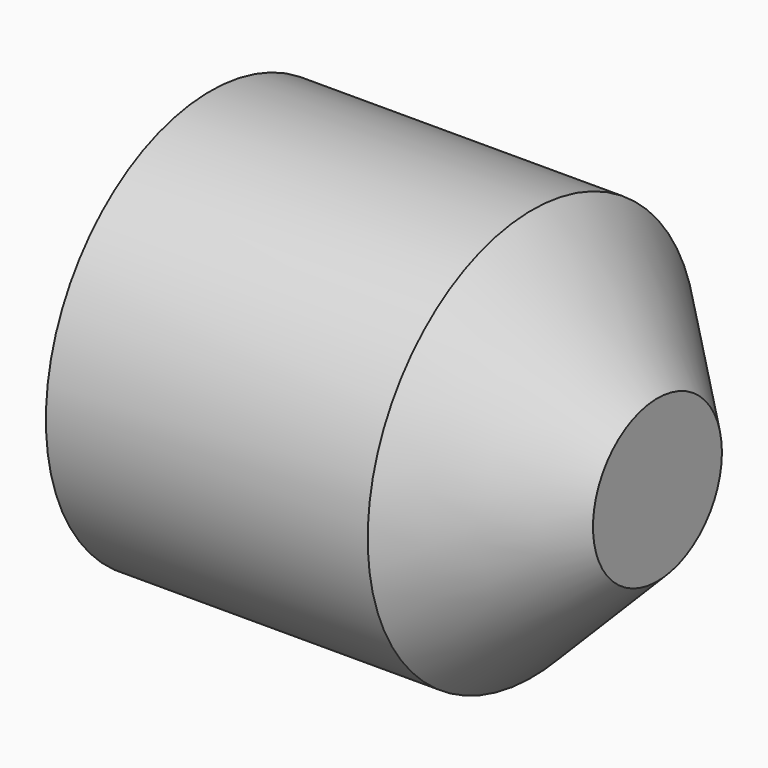
from build123d import *

# Parameters (mm, degrees)
F0_R     = 11.507721
F1_DEPTH = 25
F2_SIZE  = 7


with BuildPart() as f1:
    # F0 (on Right) → F1 (new body)
    with BuildSketch(Plane.YZ):
        Circle(F0_R)
    extrude(amount=F1_DEPTH)

    # F2
    f2_edges = [f1.edges().sort_by_distance(p)[0] for p in [
        (25, -11.507721, 0),
    ]]
    chamfer(f2_edges, length=F2_SIZE)


solid = f1.part
